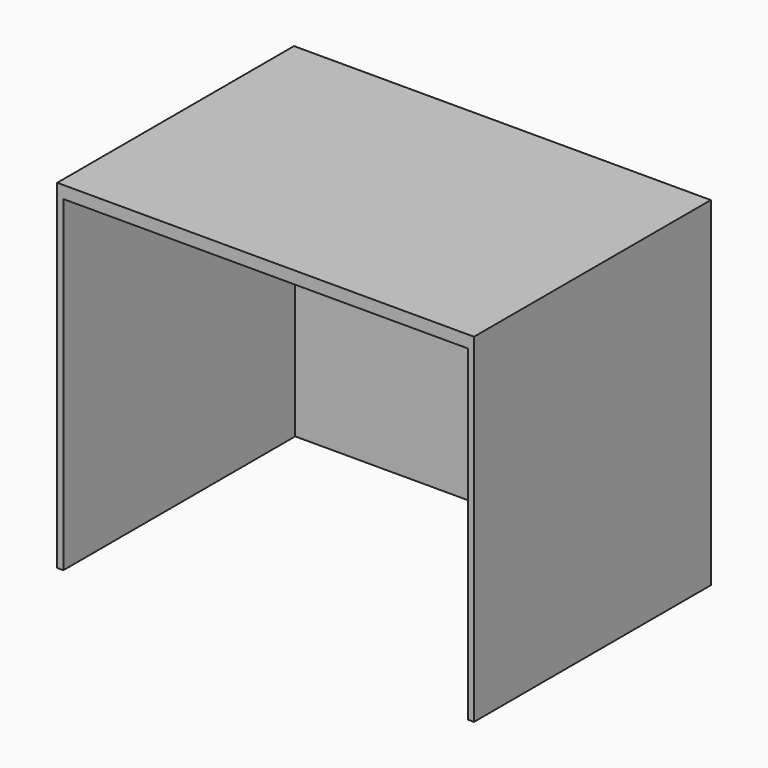
from build123d import *

# Parameters (mm, degrees)
F0_W      = 3380
F0_H      = 2400
F1_DEPTH  = 100
F2_W      = 50
F2_H      = 2400
F3_DEPTH  = 2650
F4_W      = 3330
F4_H      = 50
F5_DEPTH  = 2650
F6_W      = 50
F6_H      = 2350
F8_DEPTH  = 2650
F9_W      = 3280
F9_H      = 100
F10_DEPTH = 0.01


with BuildPart() as f1:
    # F0 (on Top) → F1 (new body)
    with BuildSketch(Plane.XY):
        Rectangle(F0_W, F0_H)
    extrude(amount=F1_DEPTH)

    # F2 (on face) → F3 (join)
    with BuildSketch(Plane(origin=(0, 0, 0), x_dir=(1, 0, 0), z_dir=(0, 0, -1))):
        with Locations((1665, 0)):
            Rectangle(F2_W, F2_H)
    extrude(amount=F3_DEPTH)

    # F4 (on face) → F5 (join)
    with BuildSketch(Plane(origin=(0, 0, 0), x_dir=(1, 0, 0), z_dir=(0, 0, -1))):
        with Locations((-25, -1175)):
            Rectangle(F4_W, F4_H)
    extrude(amount=F5_DEPTH)

    # F6 (on face) → F8 (join)
    with BuildSketch(Plane(origin=(0, 0, 0), x_dir=(1, 0, 0), z_dir=(0, 0, -1))):
        with Locations((-1665, 25)):
            Rectangle(F6_W, F6_H)
    extrude(amount=F8_DEPTH)

    # F9 (on face) → F10 (join)
    with BuildSketch(Plane(origin=(0, 0, 0), x_dir=(1, 0, 0), z_dir=(0, 0, -1))):
        with Locations((0, 1150)):
            Rectangle(F9_W, F9_H)
    extrude(amount=F10_DEPTH)


solid = f1.part
